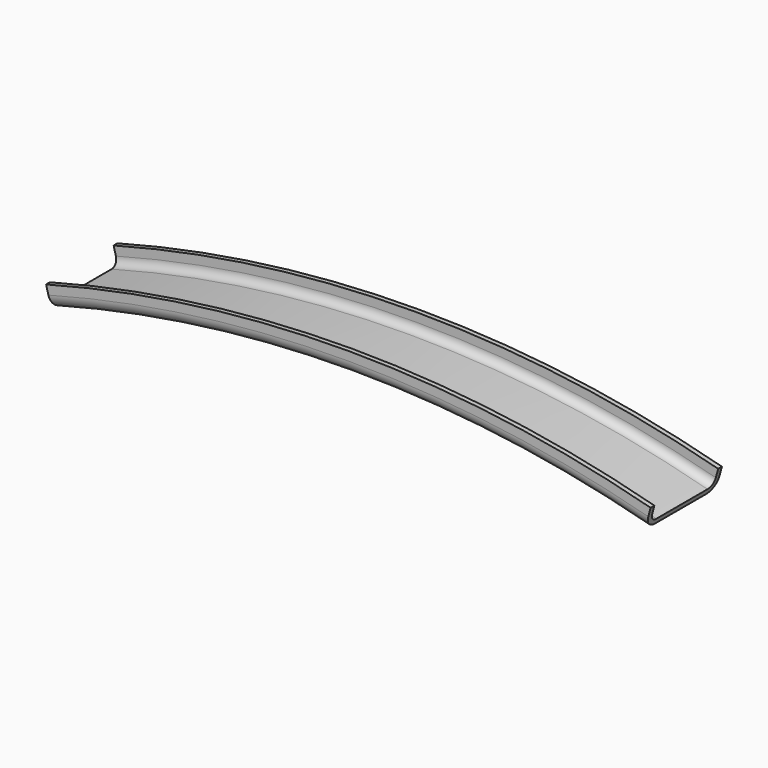
from build123d import *

# Parameters (mm, degrees)
F3_ANGLE = 30


with BuildPart() as f3:
    # F1 (on Right) → F3 (revolve, symmetric)
    with BuildSketch(Plane.YZ) as f3_sk:
        with BuildLine():
            ThreePointArc((-10.795, 280.8224), (-9.902261, 278.667139), (-7.747, 277.7744))
            Line((-7.747, 277.7744), (7.747, 277.7744))
            ThreePointArc((7.747, 277.7744), (9.902261, 278.667139), (10.795, 280.8224))
            Line((10.795, 280.8224), (10.795, 282.9814))
            Line((10.795, 282.9814), (9.652, 282.9814))
            Line((9.652, 282.9814), (9.652, 280.8224))
            ThreePointArc((9.652, 280.8224), (9.094038, 279.475362), (7.747, 278.9174))
            Line((7.747, 278.9174), (-7.747, 278.9174))
            ThreePointArc((-7.747, 278.9174), (-9.094038, 279.475362), (-9.652, 280.8224))
            Line((-9.652, 280.8224), (-9.652, 282.9814))
            Line((-9.652, 282.9814), (-10.795, 282.9814))
            Line((-10.795, 282.9814), (-10.795, 280.8224))
        make_face()
    revolve(axis=Axis((0, -102.103345, 0), (0, -1, 0)), revolution_arc=F3_ANGLE / 2)
    revolve(f3_sk.sketch, axis=Axis((0, -102.103345, 0), (0, 1, 0)), revolution_arc=F3_ANGLE / 2)


solid = f3.part
